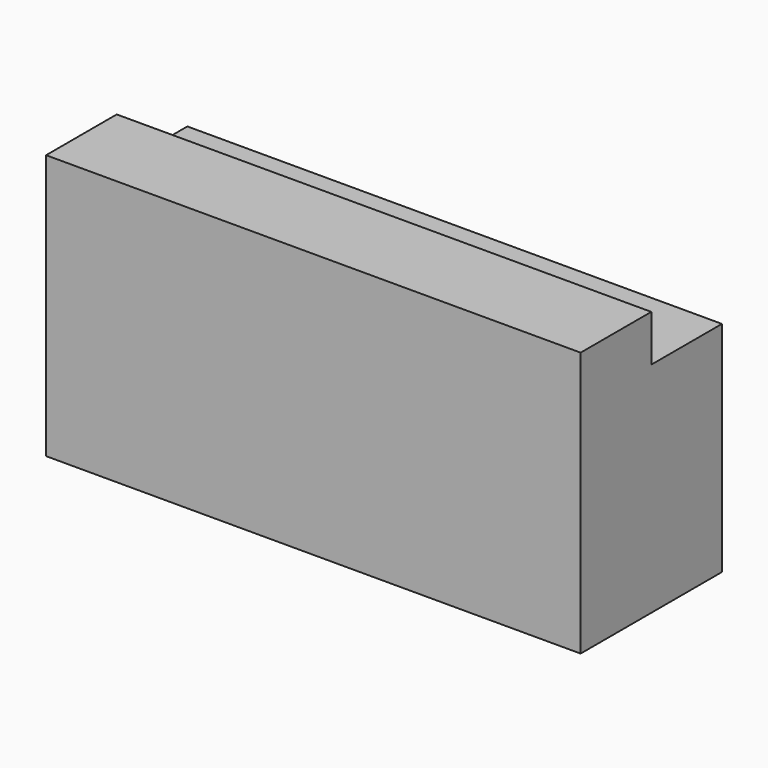
from build123d import *

# Parameters (mm, degrees)
F0_W     = 230
F0_H     = 114
F1_DEPTH = 76
F3_W     = 38
F3_H     = 20
F4_DEPTH = 230.001


with BuildPart() as f1:
    # F0 (on Front) → F1 (new body)
    with BuildSketch(Plane.XZ):
        Rectangle(F0_W, F0_H)
    extrude(amount=F1_DEPTH)

    # F3 (on offset) → F4 (cut, through all)
    with BuildSketch(Plane.YZ.offset(115)):
        with Locations((-19, 47)):
            Rectangle(F3_W, F3_H)
    extrude(amount=-F4_DEPTH, mode=Mode.SUBTRACT)


solid = f1.part
